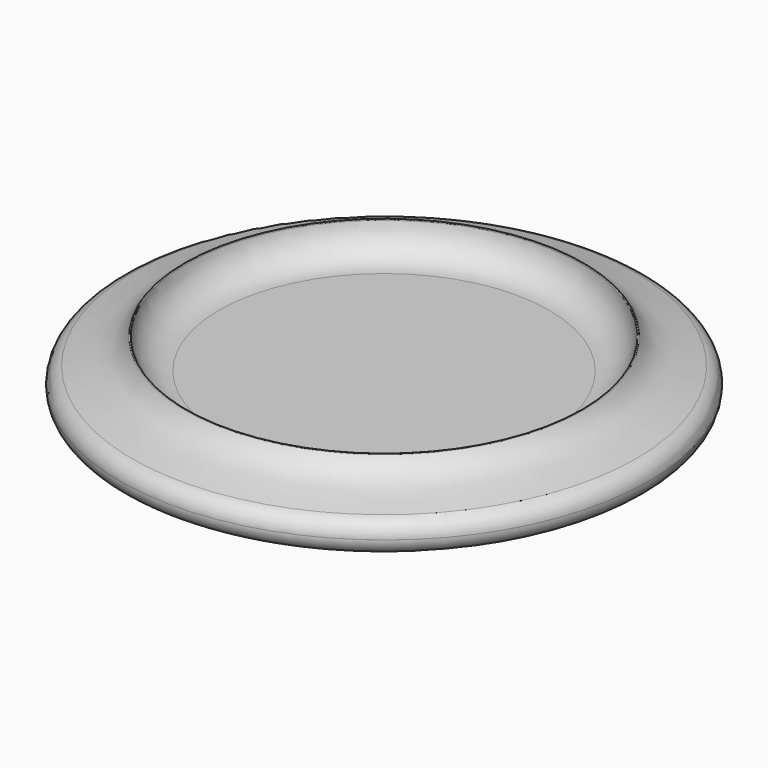
from build123d import *


with BuildPart() as f2:
    # F1 (on Front) → F2 (revolve)
    with BuildSketch(Plane.XZ):
        with BuildLine():
            ThreePointArc((38.069789, 5.731313), (36.015785, 1.646216), (31.75, 0))
            Line((31.75, 0), (0, 0))
            Line((0, 0), (0, -5.365094))
            Line((0, -5.365094), (47.625, -5.365094))
            ThreePointArc((47.625, -5.365094), (49.870064, -4.435158), (50.8, -2.190094))
            Line((50.8, -2.190094), (50.8, -2.177424))
            ThreePointArc((50.8, -2.177424), (50.14917, -0.251498), (48.463503, 0.884853))
            add(Edge.make_bspline(
                [(48.463503, 0.884853), (44.722084, 1.909317), (40.504035, 1.759242), (38.357007, 5.820869)],
                knots=[2.442821, 2.442821, 2.442821, 2.442821, 13.729517, 13.729517, 13.729517, 13.729517], degree=3))
            ThreePointArc((38.357007, 5.820869), (38.208545, 5.89959), (38.080714, 5.790514))
            ThreePointArc((38.080714, 5.790514), (38.073994, 5.761146), (38.069789, 5.731313))
        make_face()
    revolve(axis=Axis((0, 0, -2.682547), (0, 0, -1)))


solid = f2.part
